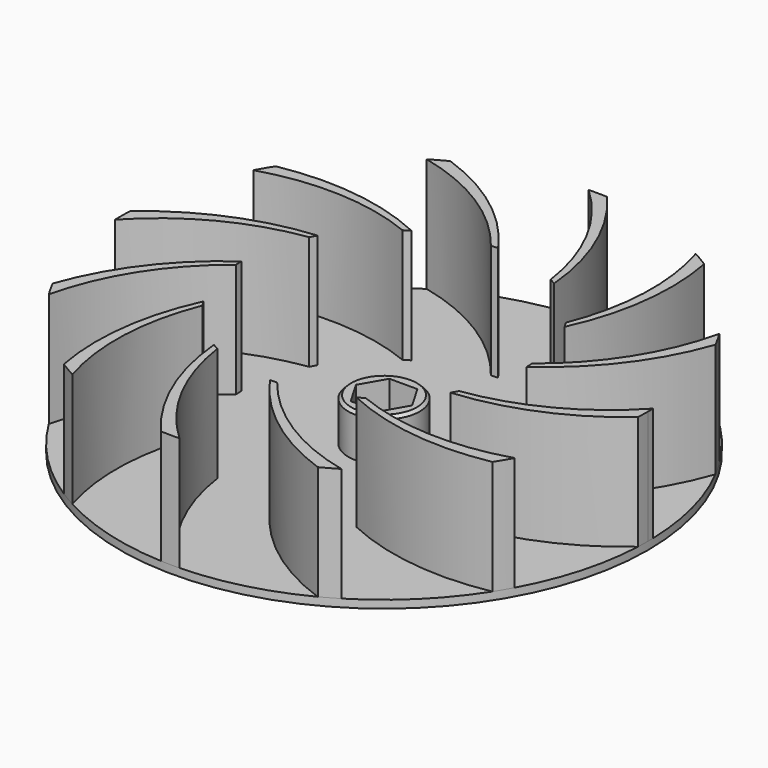
from build123d import *

# Parameters (mm, degrees)
F0_R     = 46.99
F1_DEPTH = 1.397
F3_DEPTH = 25.4
F4_R     = 6.35
F5_DEPTH = 7.62
F6_SIZE  = 0.508
F8_DEPTH = 20.32


with BuildPart() as f1:
    # F0 (on Top) → F1 (new body)
    with BuildSketch(Plane.XY):
        Circle(F0_R)
    extrude(amount=F1_DEPTH)

    # F2 (on face) → F3 (cut)
    with BuildSketch(Plane(origin=(0, 0, 0), x_dir=(1, 0, 0), z_dir=(0, 0, -1))):
        Polygon((2.4929984624, 4.318), (-2.4929984624, 4.318), (-4.9859969247, 0), (-2.4929984624, -4.318), (2.4929984624, -4.318), (4.9859969247, 0), align=None)
    extrude(amount=-F3_DEPTH, mode=Mode.SUBTRACT)

    # F4 (on face) → F5 (join)
    with BuildSketch(Plane.XY.offset(1.397)):
        Circle(F4_R)
        Polygon((2.4929984624, 4.318), (4.9859969247, 0), (2.4929984624, -4.318), (-2.4929984624, -4.318), (-4.9859969247, 0), (-2.4929984624, 4.318), align=None, mode=Mode.SUBTRACT)
    extrude(amount=F5_DEPTH)

    # F6
    f6_edges = [f1.edges().sort_by_distance(p)[0] for p in [
        (-6.35, 0, 9.017),
    ]]
    chamfer(f6_edges, length=F6_SIZE)

    # F7 (on face) → F8 (join)
    with BuildSketch(Plane.XY.offset(1.397)):
        with BuildLine():
            ThreePointArc((25.4, 0), (35.2612826312, 9.5139210825), (41.7364588819, 21.59))
            ThreePointArc((41.7364588819, 21.59), (40.9458823261, 23.0541714346), (40.1039614528, 24.4894339623))
            ThreePointArc((40.1039614528, 24.4894339623), (34.7338091215, 11.6119097242), (25.3682301314, 1.27))
            Line((25.3682301314, 1.27), (25.4, 0))
        make_face()
        with BuildLine():
            ThreePointArc((21.9970452561, 12.7), (25.7802059874, 25.8699386627), (25.3498336557, 39.5657179087))
            ThreePointArc((25.3498336557, 39.5657179087), (23.9330885575, 40.4384392886), (22.4863324294, 41.260452662))
            ThreePointArc((22.4863324294, 41.260452662), (24.2744062074, 27.4231133684), (21.3345317428, 13.7839673285))
            Line((21.3345317428, 13.7839673285), (21.9970452561, 12.7))
        make_face()
        with BuildLine():
            ThreePointArc((12.7, 21.9970452561), (9.3913439685, 35.2941270699), (2.1707409732, 46.9398336557))
            ThreePointArc((2.1707409732, 46.9398336557), (0.5074430375, 46.9872599921), (-1.1564912092, 46.9757663917))
            ThreePointArc((-1.1564912092, 46.9757663917), (7.3106957532, 35.8863159315), (11.5842628029, 22.6045317428))
            Line((11.5842628029, 22.6045317428), (12.7, 21.9970452561))
        make_face()
        with BuildLine():
            ThreePointArc((0, 25.4), (-9.5139210825, 35.2612826312), (-21.59, 41.7364588819))
            ThreePointArc((-21.59, 41.7364588819), (-23.0541714346, 40.9458823261), (-24.4894339623, 40.1039614528))
            ThreePointArc((-24.4894339623, 40.1039614528), (-11.6119097242, 34.7338091215), (-1.27, 25.3682301314))
            Line((-1.27, 25.3682301314), (0, 25.4))
        make_face()
        with BuildLine():
            ThreePointArc((-12.7, 21.9970452561), (-25.8699386627, 25.7802059874), (-39.5657179087, 25.3498336557))
            ThreePointArc((-39.5657179087, 25.3498336557), (-40.4384392886, 23.9330885575), (-41.260452662, 22.4863324294))
            ThreePointArc((-41.260452662, 22.4863324294), (-27.4231133684, 24.2744062074), (-13.7839673285, 21.3345317428))
            Line((-13.7839673285, 21.3345317428), (-12.7, 21.9970452561))
        make_face()
        with BuildLine():
            ThreePointArc((-21.9970452561, 12.7), (-35.2941270699, 9.3913439685), (-46.9398336557, 2.1707409732))
            ThreePointArc((-46.9398336557, 2.1707409732), (-46.9872599921, 0.5074430375), (-46.9757663917, -1.1564912092))
            ThreePointArc((-46.9757663917, -1.1564912092), (-35.8863159315, 7.3106957532), (-22.6045317428, 11.5842628029))
            Line((-22.6045317428, 11.5842628029), (-21.9970452561, 12.7))
        make_face()
        with BuildLine():
            ThreePointArc((-41.7364588819, -21.59), (-40.9458823261, -23.0541714346), (-40.1039614528, -24.4894339623))
            ThreePointArc((-40.1039614528, -24.4894339623), (-34.7338091215, -11.6119097242), (-25.3682301314, -1.27))
            Line((-25.3682301314, -1.27), (-25.4, 0))
            ThreePointArc((-25.4, 0), (-35.2612826312, -9.5139210825), (-41.7364588819, -21.59))
        make_face()
        with BuildLine():
            ThreePointArc((-25.3498336557, -39.5657179087), (-23.9330885575, -40.4384392886), (-22.4863324294, -41.260452662))
            ThreePointArc((-22.4863324294, -41.260452662), (-24.2744062074, -27.4231133684), (-21.3345317428, -13.7839673285))
            Line((-21.3345317428, -13.7839673285), (-21.9970452561, -12.7))
            ThreePointArc((-21.9970452561, -12.7), (-25.7802059874, -25.8699386627), (-25.3498336557, -39.5657179087))
        make_face()
        with BuildLine():
            ThreePointArc((-2.1707409732, -46.9398336557), (-0.5074430375, -46.9872599921), (1.1564912092, -46.9757663917))
            ThreePointArc((1.1564912092, -46.9757663917), (-7.3106957532, -35.8863159315), (-11.5842628029, -22.6045317428))
            Line((-11.5842628029, -22.6045317428), (-12.7, -21.9970452561))
            ThreePointArc((-12.7, -21.9970452561), (-9.3913439685, -35.2941270699), (-2.1707409732, -46.9398336557))
        make_face()
        with BuildLine():
            ThreePointArc((21.59, -41.7364588819), (23.0541714346, -40.9458823261), (24.4894339623, -40.1039614528))
            ThreePointArc((24.4894339623, -40.1039614528), (11.6119097242, -34.7338091215), (1.27, -25.3682301314))
            Line((1.27, -25.3682301314), (0, -25.4))
            ThreePointArc((0, -25.4), (9.5139210825, -35.2612826312), (21.59, -41.7364588819))
        make_face()
        with BuildLine():
            ThreePointArc((39.5657179087, -25.3498336557), (40.4384392886, -23.9330885575), (41.260452662, -22.4863324294))
            ThreePointArc((41.260452662, -22.4863324294), (27.4231133684, -24.2744062074), (13.7839673285, -21.3345317428))
            Line((13.7839673285, -21.3345317428), (12.7, -21.9970452561))
            ThreePointArc((12.7, -21.9970452561), (25.8699386627, -25.7802059874), (39.5657179087, -25.3498336557))
        make_face()
        with BuildLine():
            ThreePointArc((46.99, 0), (46.9864414632, 0.5782893983), (46.9757663917, 1.1564912092))
            ThreePointArc((46.9757663917, 1.1564912092), (35.8863159315, -7.3106957532), (22.6045317428, -11.5842628029))
            Line((22.6045317428, -11.5842628029), (21.9970452561, -12.7))
            ThreePointArc((21.9970452561, -12.7), (35.2941270699, -9.3913439685), (46.9398336557, -2.1707409732))
            ThreePointArc((46.9398336557, -2.1707409732), (46.9774567398, -1.085660287), (46.99, 0))
        make_face()
    extrude(amount=F8_DEPTH)


solid = f1.part
